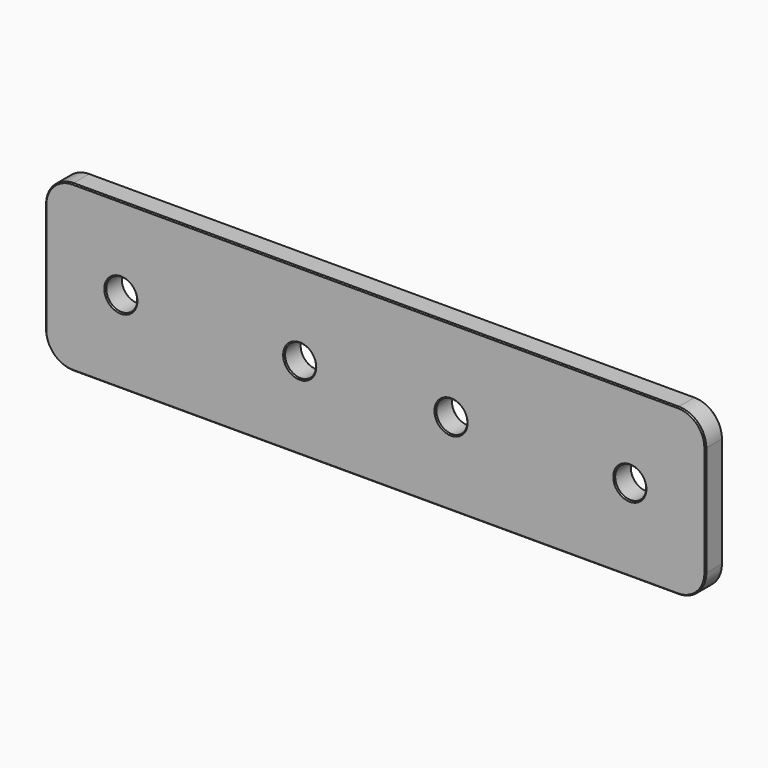
from build123d import *

# Parameters (mm, degrees)
F0_R     = 7.14375
F1_DEPTH = 10
F2_SIZE  = 0.508


with BuildPart() as f1:
    # F0 (on Front) → F1 (new body)
    with BuildSketch(Plane.XZ):
        with BuildLine():
            Line((-152.4, 25.4), (-152.4, 0))
            Line((-152.4, 0), (-152.4, -25.4))
            ThreePointArc((-152.4, -25.4), (-148.680256, -34.380256), (-139.7, -38.1))
            Line((-139.7, -38.1), (0, -38.1))
            Line((0, -38.1), (139.7, -38.1))
            ThreePointArc((139.7, -38.1), (148.680256, -34.380256), (152.4, -25.4))
            Line((152.4, -25.4), (152.4, 0))
            Line((152.4, 0), (152.4, 25.4))
            ThreePointArc((152.4, 25.4), (148.680256, 34.380256), (139.7, 38.1))
            Line((139.7, 38.1), (0, 38.1))
            Line((0, 38.1), (-139.7, 38.1))
            ThreePointArc((-139.7, 38.1), (-148.680256, 34.380256), (-152.4, 25.4))
        make_face()
        with Locations((-117.475, 0)):
            Circle(F0_R, mode=Mode.SUBTRACT)
        with Locations((-34.925, 0)):
            Circle(F0_R, mode=Mode.SUBTRACT)
        with Locations((34.925, 0)):
            Circle(F0_R, mode=Mode.SUBTRACT)
        with Locations((117.475, 0)):
            Circle(F0_R, mode=Mode.SUBTRACT)
    extrude(amount=F1_DEPTH)

    # F2
    f2_edges = [f1.edges().sort_by_distance(p)[0] for p in [
        (-148.680256, -10, 34.380256),
        (-152.4, -10, 0),
        (-148.680256, -10, -34.380256),
        (0, -10, -38.1),
        (148.680256, -10, -34.380256),
        (152.4, -10, 0),
        (148.680256, -10, 34.380256),
        (0, -10, 38.1),
        (-124.61875, -10, 0),
        (-42.06875, -10, 0),
        (27.78125, -10, 0),
        (110.33125, -10, 0),
        (-148.680256, 0, 34.380256),
        (-152.4, 0, 0),
        (-148.680256, 0, -34.380256),
        (0, 0, -38.1),
        (148.680256, 0, -34.380256),
        (152.4, 0, 0),
        (148.680256, 0, 34.380256),
        (0, 0, 38.1),
        (-124.61875, 0, 0),
        (-42.06875, 0, 0),
        (27.78125, 0, 0),
        (110.33125, 0, 0),
    ]]
    chamfer(f2_edges, length=F2_SIZE)


solid = f1.part
